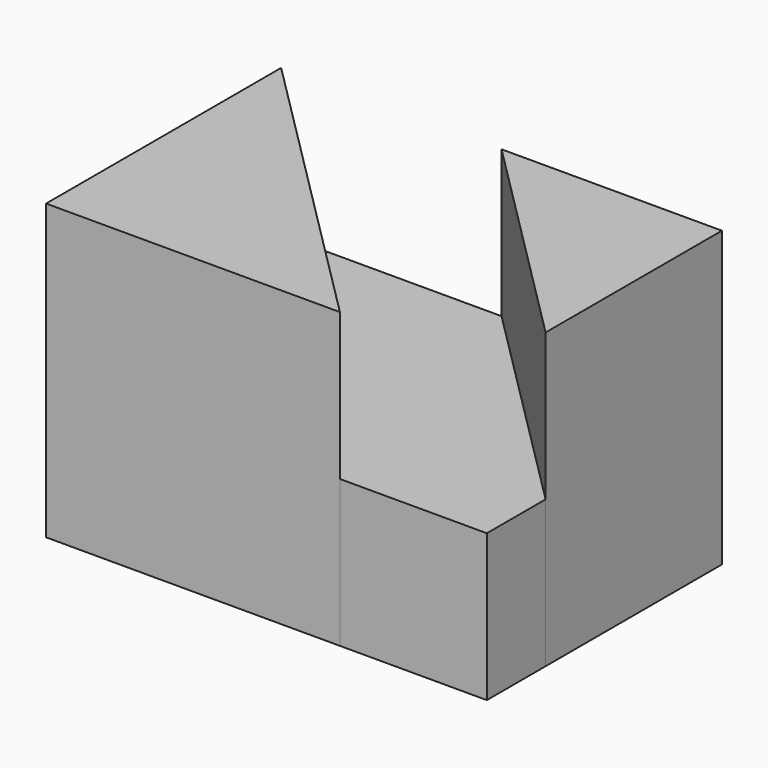
from build123d import *

# Parameters (mm, degrees)
F1_DEPTH = 25.4
F2_DEPTH = 12.7


with BuildPart() as f1:
    # F0 (on Top) → F1 (new body)
    with BuildSketch(Plane.XY):
        Polygon((6.35, 0), (-19.05, 25.4), (-19.05, 0), align=None)
    extrude(amount=F1_DEPTH)


with BuildPart() as f1b:
    # F0 (on Top) → F1, piece 2 (new body)
    with BuildSketch(Plane.XY):
        Polygon((19.05, 25.4), (0, 25.4), (19.05, 6.35), align=None)
    extrude(amount=F1_DEPTH)


with BuildPart() as f2:
    # F0 (on Top) → F2 (new body)
    with BuildSketch(Plane.XY):
        Polygon((0, 25.4), (-19.05, 25.4), (6.35, 0), (19.05, 0), (19.05, 6.35), align=None)
    extrude(amount=F2_DEPTH)


solid = Compound([f1.part, f1b.part, f2.part])
